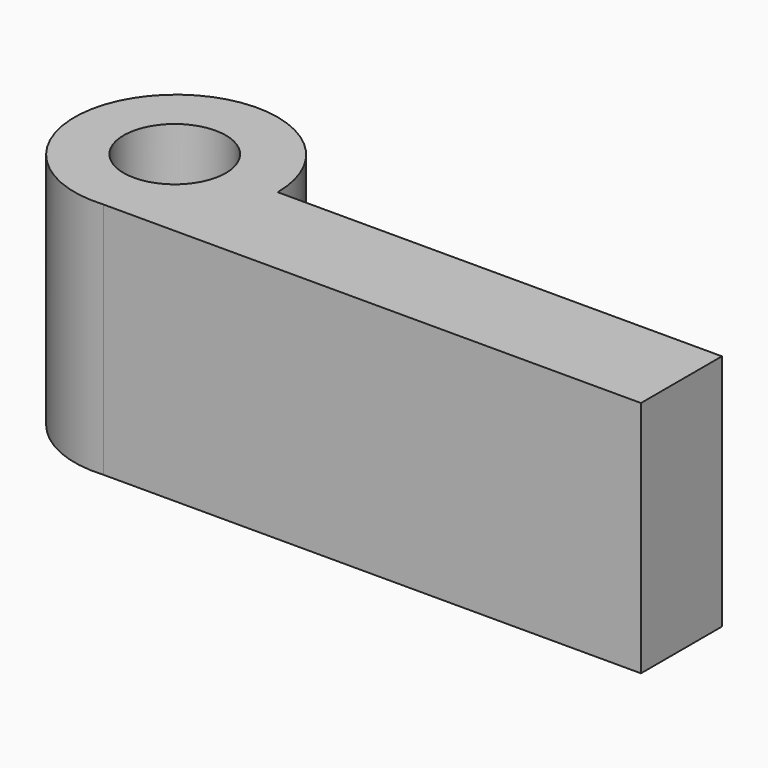
from build123d import *

# Parameters (mm, degrees)
F1_DEPTH = 25.4


with BuildPart() as f1:
    # F0 (on Top) → F1 (new body, symmetric)
    with BuildSketch(Plane.XY):
        with BuildLine():
            Line((21.971458, 0), (10.902476, 0))
            ThreePointArc((10.902476, 0), (7.811772, -7.605275), (0.292004, -10.898565))
            Line((0.292004, -10.898565), (0.292004, -21.608541))
            Line((0.292004, -21.608541), (2.044055, -21.608541))
            ThreePointArc((2.044055, -21.608541), (16.229103, -14.697197), (21.971458, 0))
        make_face()
        with BuildLine():
            ThreePointArc((0.292004, -10.898565), (-7.811772, 7.605275), (10.902476, 0))
            Line((10.902476, 0), (21.971458, 0))
            ThreePointArc((21.971458, 0), (-15.645094, 14.697197), (2.044055, -21.608541))
            Line((2.044055, -21.608541), (0.292004, -21.608541))
            Line((0.292004, -21.608541), (0.292004, -10.898565))
        make_face()
        with BuildLine():
            Line((116.802923, 0), (21.971458, 0))
            ThreePointArc((21.971458, 0), (16.229103, -14.697197), (2.044055, -21.608541))
            Line((2.044055, -21.608541), (116.802923, -21.608541))
            Line((116.802923, -21.608541), (116.802923, 0))
        make_face()
    extrude(amount=F1_DEPTH, both=True)


solid = f1.part
